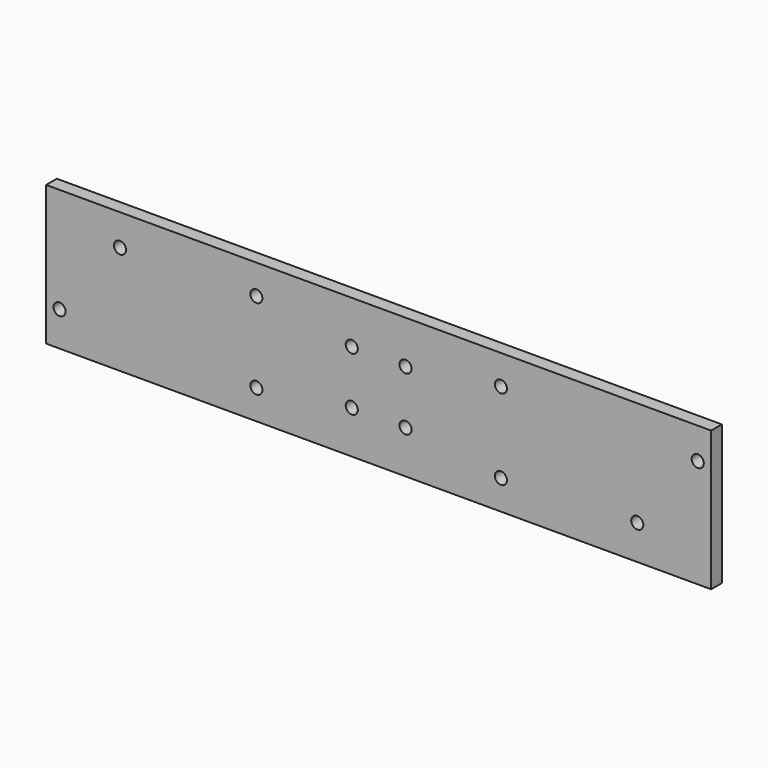
from build123d import *

# Parameters (mm, degrees)
F0_W     = 10
F0_H     = 104
F1_DEPTH = 247.5
F3_D     = 9
F3_DEPTH = 18
F3_TIP   = 2.7038727856
F5_D     = 9
F5_DEPTH = 18
F5_TIP   = 2.7038727856


with BuildPart() as f1:
    # F0 (on Right) → F1 (new body, symmetric)
    with BuildSketch(Plane.YZ):
        Rectangle(F0_W, F0_H)
    extrude(amount=F1_DEPTH, both=True)

    # F3
    with Locations(Plane.XZ.offset(5)):
        with Locations((-192.5, 28.7598677054), (-237.5, -26.2401322946), (237.5, 28.7598677054), (192.5, -26.2401322946)):
            Hole(F3_D / 2, depth=F3_DEPTH)
            with Locations((0, 0, -(F3_DEPTH + F3_TIP / 2))):  # 118° drill point
                Cone(0, F3_D / 2, F3_TIP, mode=Mode.SUBTRACT)

    # F5
    with Locations(Plane(origin=(0, 5, 0), x_dir=(-1, 0, 0), z_dir=(0, 1, 0))):
        with Locations((-20, 20), (20, 20), (-20, -20), (20, -20), (91, 30), (91, -30), (-91, -30), (-91, 30)):
            Hole(F5_D / 2, depth=F5_DEPTH)
            with Locations((0, 0, -(F5_DEPTH + F5_TIP / 2))):  # 118° drill point
                Cone(0, F5_D / 2, F5_TIP, mode=Mode.SUBTRACT)


solid = f1.part
